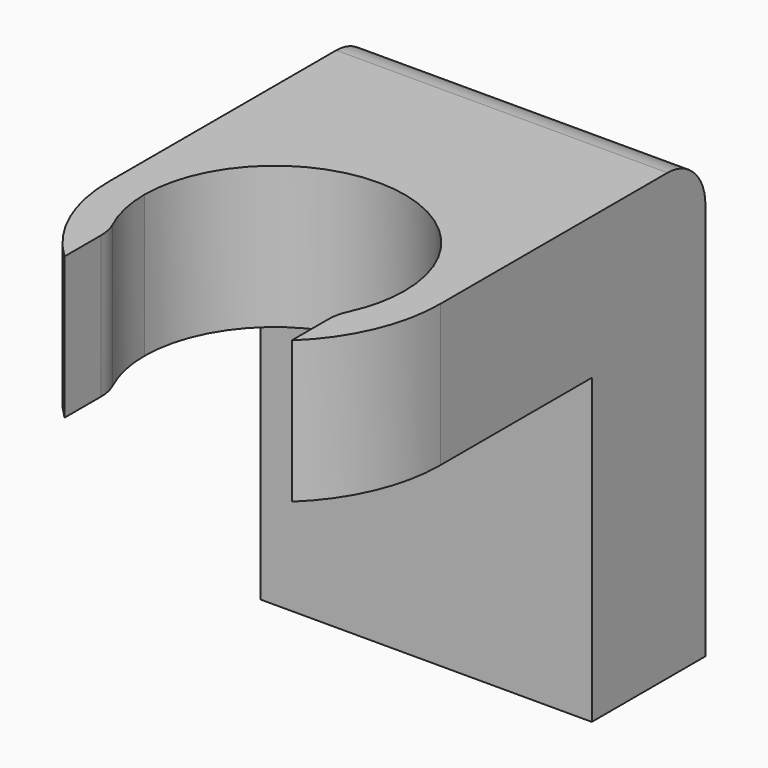
from build123d import *

# Parameters (mm, degrees)
F1_DEPTH = 3
F2_W     = 7
F2_H     = 9.4
F3_DEPTH = 3
F4_R     = 1


with BuildPart() as f1:
    # F0 (on Top) → F1 (new body)
    with BuildSketch(Plane.XY):
        with BuildLine():
            ThreePointArc((-2.4, -1.3425721582), (-2.6610618181, -0.6937218463), (-2.75, 0))
            Line((-2.75, 0), (-3.5, 0))
            ThreePointArc((-3.5, 0), (-3.2132538026, -1.3874436926), (-2.4, -2.5475478406))
            Line((-2.4, -2.5475478406), (-2.4, -1.3425721582))
        make_face()
        with BuildLine():
            ThreePointArc((-2.75, 0), (0, 2.75), (2.75, 0))
            Line((2.75, 0), (3.5, 0))
            ThreePointArc((3.5, 0), (0, 3.5), (-3.5, 0))
            Line((-3.5, 0), (-2.75, 0))
        make_face()
        with BuildLine():
            Line((3.5, 0), (2.75, 0))
            ThreePointArc((2.75, 0), (2.6610618181, -0.6937218463), (2.4, -1.3425721582))
            Line((2.4, -1.3425721582), (2.4, -2.5475478406))
            ThreePointArc((2.4, -2.5475478406), (3.2132538026, -1.3874436926), (3.5, 0))
        make_face()
        with BuildLine():
            ThreePointArc((-3.5, 0), (0, 3.5), (3.5, 0))
            Line((3.5, 0), (3.5, 4))
            Line((3.5, 4), (-3.5, 4))
            Line((-3.5, 4), (-3.5, 0))
        make_face()
    extrude(amount=F1_DEPTH)

    # F2 (on face) → F3 (join)
    with BuildSketch(Plane(origin=(0, 4, 0), x_dir=(-1, 0, 0), z_dir=(0, 1, 0))):
        with Locations((0, -1.7)):
            Rectangle(F2_W, F2_H)
    extrude(amount=F3_DEPTH)

    # F4
    f4_edges = [f1.edges().sort_by_distance(p)[0] for p in [
        (0, 7, 3),
        (-2.4, -1.342572, 1.5),
        (2.4, -1.342572, 1.5),
    ]]
    fillet(f4_edges, radius=F4_R)


solid = f1.part
